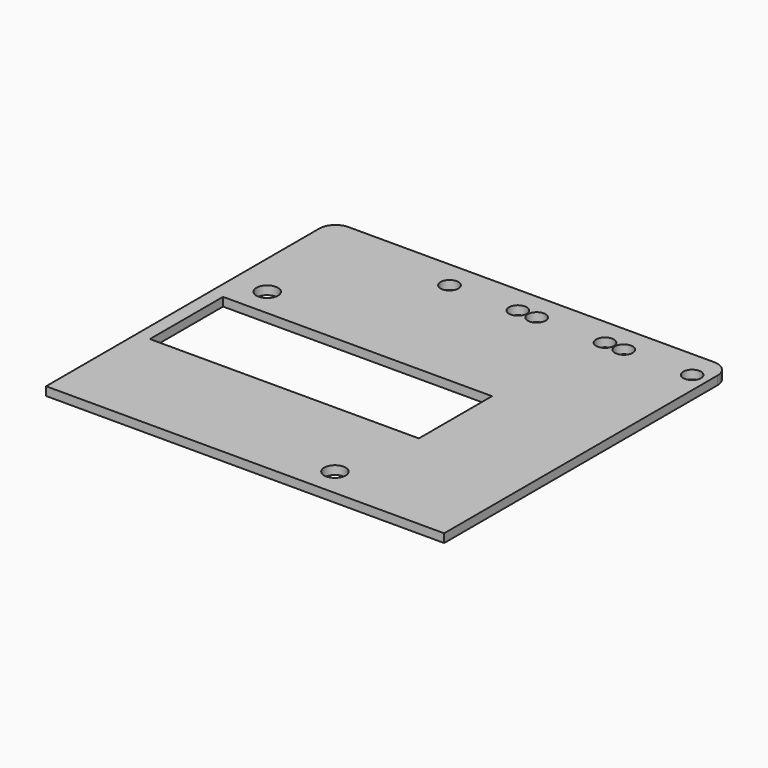
from build123d import *

# Parameters (mm, degrees)
F0_W     = 74
F0_H     = 66.5
F1_DEPTH = 1.6
F2_R     = 3
F3_R     = 2
F3_W     = 50
F3_H     = 17
F3_R_2   = 1.65
F4_DEPTH = 25


with BuildPart() as f1:
    # F0 (on Top) → F1 (new body)
    with BuildSketch(Plane.XY):
        with Locations((9.5, 9)):
            Rectangle(F0_W, F0_H)
    extrude(amount=F1_DEPTH)

    # F2
    f2_edges = [f1.edges().sort_by_distance(p)[0] for p in [
        (-27.5, 42.25, 0.8),
        (46.5, 42.25, 0.8),
    ]]
    fillet(f2_edges, radius=F2_R)

    # F3 (on face) → F4 (cut)
    with BuildSketch(Plane.XY.offset(1.6)):
        with Locations((-21, 19)):
            Circle(F3_R)
        with Locations((22, -19)):
            Circle(F3_R)
        with Locations((0, 5.25)):
            Rectangle(F3_W, F3_H)
        with Locations((-1.6, 37.127893)):
            Circle(F3_R_2)
        with Locations((11.1, 37.127893)):
            Circle(F3_R_2)
        with Locations((14.6, 37.127893)):
            Circle(F3_R_2)
        with Locations((27.3, 37.127893)):
            Circle(F3_R_2)
        with Locations((30.8, 37.127893)):
            Circle(F3_R_2)
        with Locations((43.5, 37.127893)):
            Circle(F3_R_2)
    extrude(amount=-F4_DEPTH, mode=Mode.SUBTRACT)


solid = f1.part
